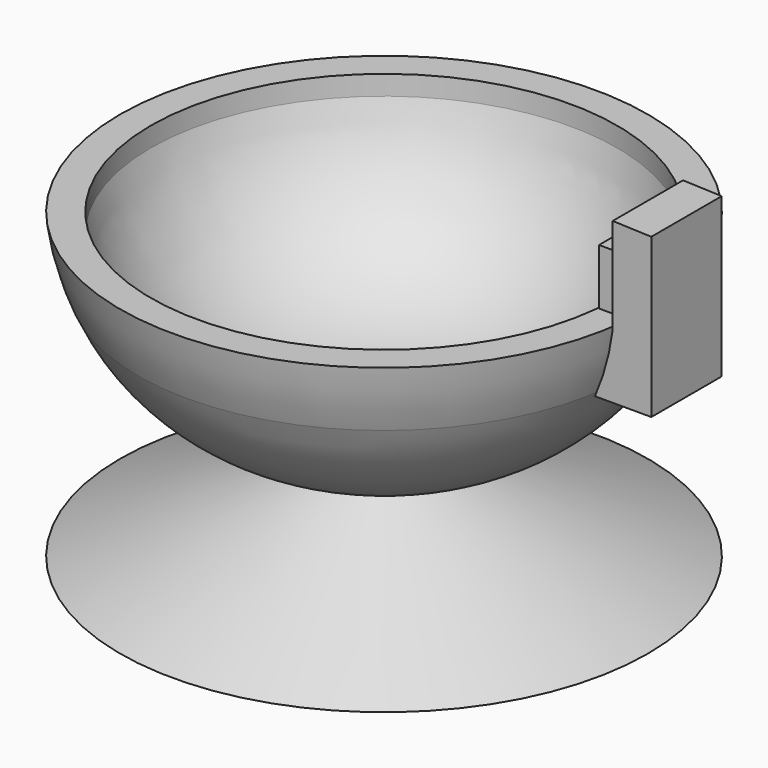
from build123d import *

# Parameters (mm, degrees)
F2_DEPTH = 6.35
F0_W     = 4.411578
F0_H     = 8.079828
F3_DEPTH = 3.302


with BuildPart() as f1:
    # F0 (on Front) → F1 (revolve)
    with BuildSketch(Plane.XZ):
        with BuildLine():
            Line((38.1, 0), (33.688422, 0))
            Line((33.688422, 0), (33.688422, -2.840012))
            ThreePointArc((33.688422, -2.840012), (23.800432, -18.430684), (6.463476, -24.776658))
            add(Edge.make_bspline(
                [(6.463476, -24.776658), (5.484162, -26.474137), (4.504847, -28.171616), (3.525533, -29.869094)],
                knots=[0, 0, 0, 0, 5.879151, 5.879151, 5.879151, 5.879151], degree=3))
            Line((3.525533, -29.869094), (27.420808, -41.620869))
            Line((27.420808, -41.620869), (0, -41.620869))
            Line((0, -41.620869), (0, -43.775361))
            Line((0, -43.775361), (38.1, -43.775361))
            Line((38.1, -43.775361), (6.071751, -29.281506))
            ThreePointArc((6.071751, -29.281506), (23.679884, -23.535917), (35.532989, -9.303489))
            ThreePointArc((35.532989, -9.303489), (37.153736, -4.744796), (38.1, 0))
        make_face()
    revolve(axis=Axis((0, 0, -21.887681), (0, 0, -1)))

    # F0 (on Front) → F2 (join, symmetric)
    with BuildSketch(Plane.XZ):
        Polygon((38.1, 8.079828), (38.1, 0), (38.1, -9.303489), (43.677427, -9.303489), (43.677427, 13.612472), (38.1, 13.808336), align=None)
        with BuildLine():
            Line((38.1, -9.303489), (38.1, 0))
            ThreePointArc((38.1, 0), (37.153736, -4.744796), (35.532989, -9.303489))
            Line((35.532989, -9.303489), (38.1, -9.303489))
        make_face()
    extrude(amount=F2_DEPTH, both=True)


with BuildPart() as f3:
    # F0 (on Front) → F3 (new body, symmetric)
    with BuildSketch(Plane.XZ):
        with Locations((35.894211, 4.039914)):
            Rectangle(F0_W, F0_H)
    extrude(amount=F3_DEPTH, both=True)


solid = Compound([f1.part, f3.part])
